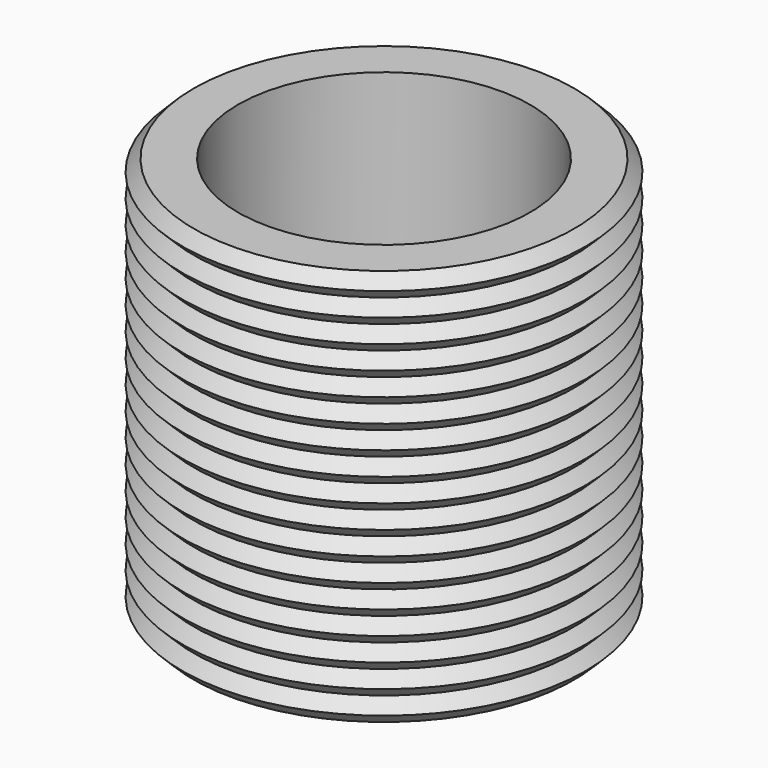
from build123d import *


with BuildPart() as f1:
    # F0 (on Front) → F1 (revolve)
    with BuildSketch(Plane.XZ):
        Polygon((-8.837755, -24.041631), (-8.84216, 0), (-11.513228, 0), (-12.220335, -0.707107), (-11.513228, -1.414214), (-12.220335, -2.12132), (-11.513228, -2.828427), (-12.220335, -3.535534), (-11.513228, -4.242641), (-12.220335, -4.949747), (-11.513228, -5.656854), (-12.220335, -6.363961), (-11.513228, -7.071068), (-12.220335, -7.778175), (-11.513228, -8.485281), (-12.220335, -9.192388), (-11.513228, -9.899495), (-12.220335, -10.606602), (-11.513228, -11.313708), (-12.220335, -12.020815), (-11.513228, -12.727922), (-12.220335, -13.435029), (-11.513228, -14.142136), (-12.220335, -14.849242), (-11.513228, -15.556349), (-12.220335, -16.263456), (-11.513228, -16.970563), (-12.220335, -17.67767), (-11.513228, -18.384776), (-12.220335, -19.091883), (-11.513228, -19.79899), (-12.220335, -20.506097), (-11.513228, -21.213203), (-12.220335, -21.92031), (-11.513228, -22.627417), (-12.220335, -23.334524), (-11.513228, -24.041631), align=None)
    revolve(axis=Axis((0, 0, -9.983526), (0, 0, -1)))


solid = f1.part
